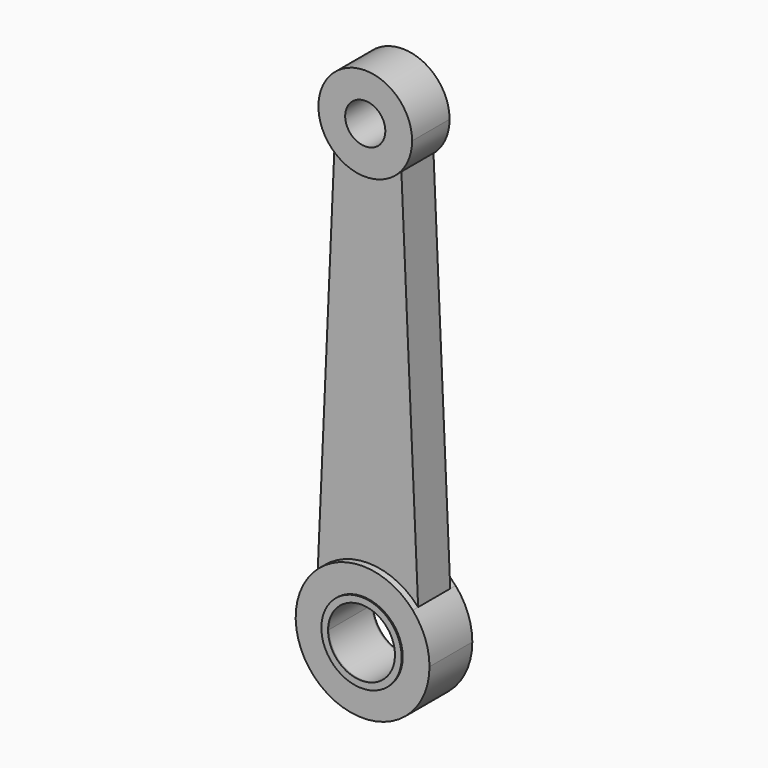
from build123d import *

# Parameters (mm, degrees)
F0_R      = 1.5
F1_DEPTH  = 1.75
F0_R_2    = 3.25
F2_DEPTH  = 2
F0_R_3    = 2.5
F3_DEPTH  = 2
F4_DEPTH  = 1.5
F7_R      = 3
F10_DEPTH = 0.1
F9_R      = 3.066876
F11_DEPTH = 0.1
F12_D     = 5
F12_DEPTH = 5
F14_D     = 5
F14_DEPTH = 5


with BuildPart() as f1:
    # F0 (on Front) → F1 (new body, symmetric)
    with BuildSketch(Plane.XZ):
        with BuildLine():
            ThreePointArc((-2.5, 31.55051), (0, 30.5), (2.5, 31.55051))
            ThreePointArc((2.5, 31.55051), (3.24037, 32.677124), (3.5, 34))
            ThreePointArc((3.5, 34), (-1.322876, 37.24037), (-2.5, 31.55051))
        make_face()
        with Locations((0, 34)):
            Circle(F0_R, mode=Mode.SUBTRACT)
    extrude(amount=F1_DEPTH, both=True)


with BuildPart() as f2:
    # F0 (on Front) → F2 (new body, symmetric)
    with BuildSketch(Plane.XZ):
        with BuildLine():
            ThreePointArc((-3.75, 3.307189), (-1.767767, -4.677072), (5, 0))
            ThreePointArc((5, 0), (4.677072, 1.767767), (3.75, 3.307189))
            ThreePointArc((3.75, 3.307189), (0, 5), (-3.75, 3.307189))
        make_face()
        Circle(F0_R_2, mode=Mode.SUBTRACT)
    extrude(amount=F2_DEPTH, both=True)

    # F0 (on Front) → F3 (join, symmetric)
    with BuildSketch(Plane.XZ):
        Circle(F0_R_2)
        Circle(F0_R_3, mode=Mode.SUBTRACT)
    extrude(amount=F3_DEPTH, both=True)

    # F7 (on offset) → F10 (join)
    with BuildSketch(Plane.XZ.offset(2)):
        Circle(F7_R)
    extrude(amount=F10_DEPTH)

    # F9 (on offset) → F11 (join)
    with BuildSketch(Plane(origin=(0, 2, 0), x_dir=(1, 0, 0), z_dir=(0, 1, 0))):
        Circle(F9_R)
    extrude(amount=F11_DEPTH)

    # F12
    with Locations(Plane(origin=(0, 0, 0), x_dir=(1, 0, 0), z_dir=(0, 1, 0))):
        with Locations((0, 0)):
            Hole(F12_D / 2, depth=F12_DEPTH)

    # F14
    with Locations(Plane.XZ.offset(-2)):
        with Locations((0, 0)):
            Hole(F14_D / 2, depth=F14_DEPTH)


with BuildPart() as f4:
    # F0 (on Front) → F4 (new body, symmetric)
    with BuildSketch(Plane.XZ):
        with BuildLine():
            ThreePointArc((-3.75, 3.307189), (0, 5), (3.75, 3.307189))
            Line((3.75, 3.307189), (2.5, 31.55051))
            ThreePointArc((2.5, 31.55051), (0, 30.5), (-2.5, 31.55051))
            Line((-2.5, 31.55051), (-3.75, 3.307189))
        make_face()
    extrude(amount=F4_DEPTH, both=True)


solid = Compound([f1.part, f2.part, f4.part])
